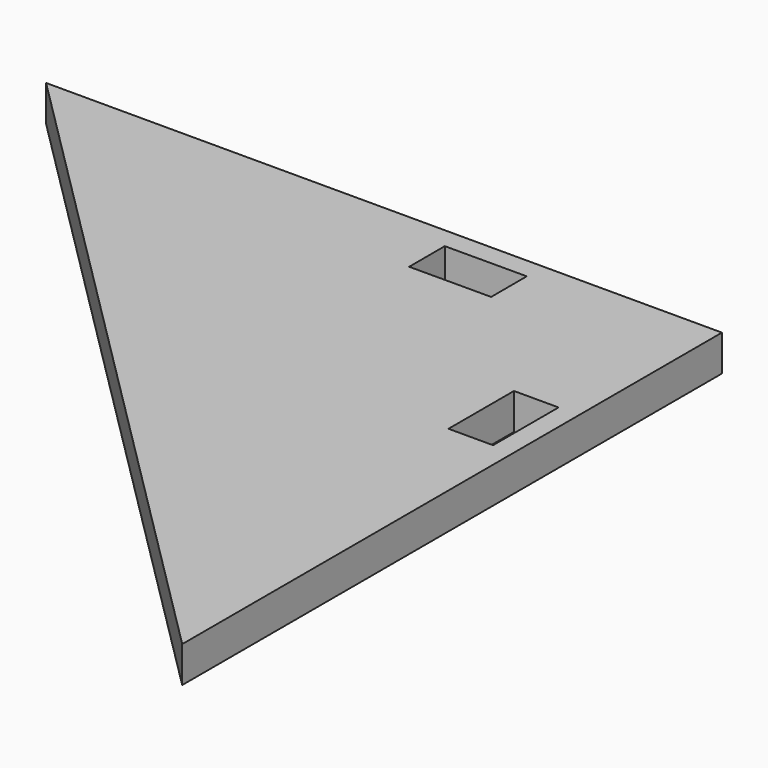
from build123d import *

# Parameters (mm, degrees)
F0_W     = 45.234501
F0_H     = 83.036979
F1_DEPTH = 36.576
F2_DEPTH = 36.576


with BuildPart() as f1:
    # F0 (on Top) → F1 (new body)
    with BuildSketch(Plane.XY):
        Polygon((232.690369, 341.347511), (-452.865685, 341.347511), (232.690369, -342.956906), (232.690369, -171.880802), (232.690369, -0.804697), align=None)
        with Locations((189.227968, 118.748626)):
            Rectangle(F0_W, F0_H, mode=Mode.SUBTRACT)
        Polygon((-31.388473, 320.019749), (51.648368, 320.17149), (51.731029, 274.937065), (-31.305811, 274.785323), align=None, mode=Mode.SUBTRACT)
    extrude(amount=F1_DEPTH)

    # F0 (on Top) → F2 (join)
    with BuildSketch(Plane.XY):
        Polygon((232.690369, 341.347511), (-452.865685, 341.347511), (232.690369, -342.956906), (232.690369, -171.880802), (232.690369, -0.804697), align=None)
        with Locations((189.227968, 118.748626)):
            Rectangle(F0_W, F0_H, mode=Mode.SUBTRACT)
        Polygon((-31.388473, 320.019749), (51.648368, 320.17149), (51.731029, 274.937065), (-31.305811, 274.785323), align=None, mode=Mode.SUBTRACT)
    extrude(amount=F2_DEPTH)


solid = f1.part
